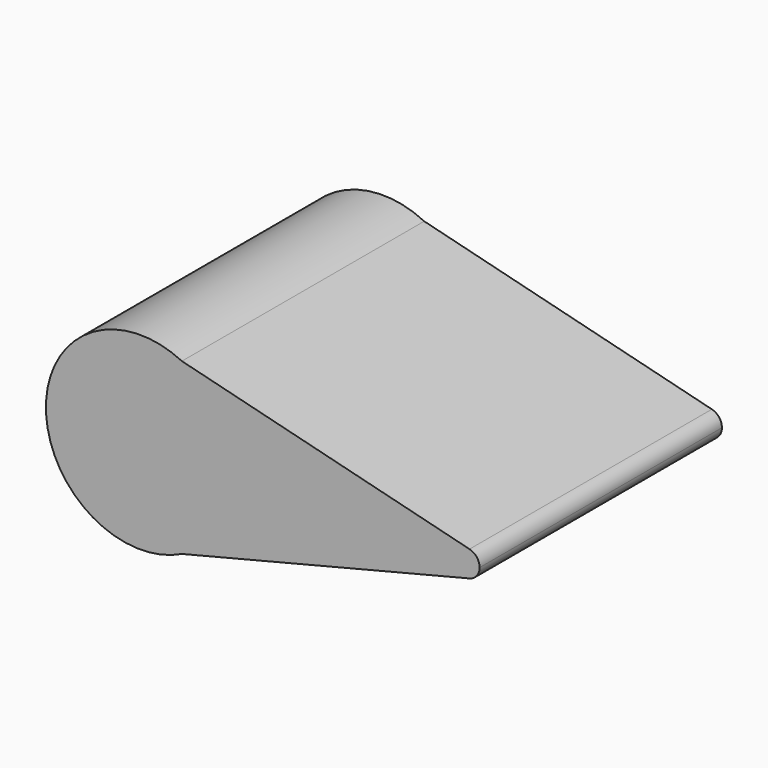
from build123d import *

# Parameters (mm, degrees)
F1_DEPTH = 57.32141


with BuildPart() as f1:
    # F0 (on Front) → F1 (new body)
    with BuildSketch(Plane.XZ):
        with BuildLine():
            ThreePointArc((7.854603, 16.062915), (15.168325, 9.467519), (17.880493, 0))
            ThreePointArc((17.880493, 0), (15.168325, -9.467519), (7.854603, -16.062915))
            Line((7.854603, -16.062915), (62.286771, -2.442561))
            ThreePointArc((62.286771, -2.442561), (59.15771, 0), (62.286771, 2.442561))
            Line((62.286771, 2.442561), (7.854603, 16.062915))
        make_face()
        with BuildLine():
            ThreePointArc((64.193446, 0), (63.660341, 1.549315), (62.286771, 2.442561))
            ThreePointArc((62.286771, 2.442561), (59.15771, 0), (62.286771, -2.442561))
            ThreePointArc((62.286771, -2.442561), (63.660341, -1.549315), (64.193446, 0))
        make_face()
        with BuildLine():
            ThreePointArc((7.854603, -16.062915), (15.168325, -9.467519), (17.880493, 0))
            ThreePointArc((17.880493, 0), (15.168325, 9.467519), (7.854603, 16.062915))
            ThreePointArc((7.854603, 16.062915), (-17.880493, 0), (7.854603, -16.062915))
        make_face()
    extrude(amount=F1_DEPTH)


solid = f1.part
